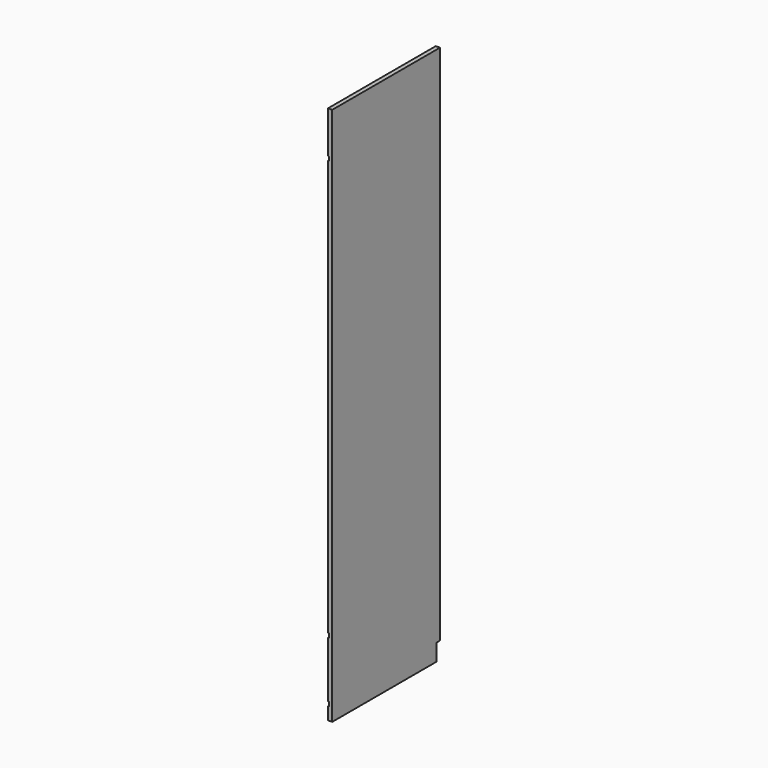
from build123d import *

# Parameters (mm, degrees)
F0_W     = 609.6
F0_H     = 2438.4
F1_DEPTH = 19.05
F2_W     = 19.05
F2_H     = 76.2
F3_DEPTH = 25.4
F4_W     = 4.7625
F4_H     = 19.05
F5_DEPTH = 609.601


with BuildPart() as f1:
    # F0 (on Right) → F1 (new body)
    with BuildSketch(Plane.YZ):
        Rectangle(F0_W, F0_H)
    extrude(amount=F1_DEPTH)

    # F2 (on face) → F3 (cut)
    with BuildSketch(Plane(origin=(0, 0, 0), x_dir=(0, -1, 0), z_dir=(-1, 0, 0))):
        with Locations((-295.275, -1181.1)):
            Rectangle(F2_W, F2_H)
    extrude(amount=-F3_DEPTH, mode=Mode.SUBTRACT)

    # F4 (on face) → F5 (cut, through all)
    with BuildSketch(Plane.XZ.offset(304.8)):
        with Locations((2.38125, -1152.525)):
            Rectangle(F4_W, F4_H)
        with Locations((2.38125, -879.475)):
            Rectangle(F4_W, F4_H)
        with Locations((2.38125, 1019.175)):
            Rectangle(F4_W, F4_H)
    extrude(amount=-F5_DEPTH, mode=Mode.SUBTRACT)


solid = f1.part
